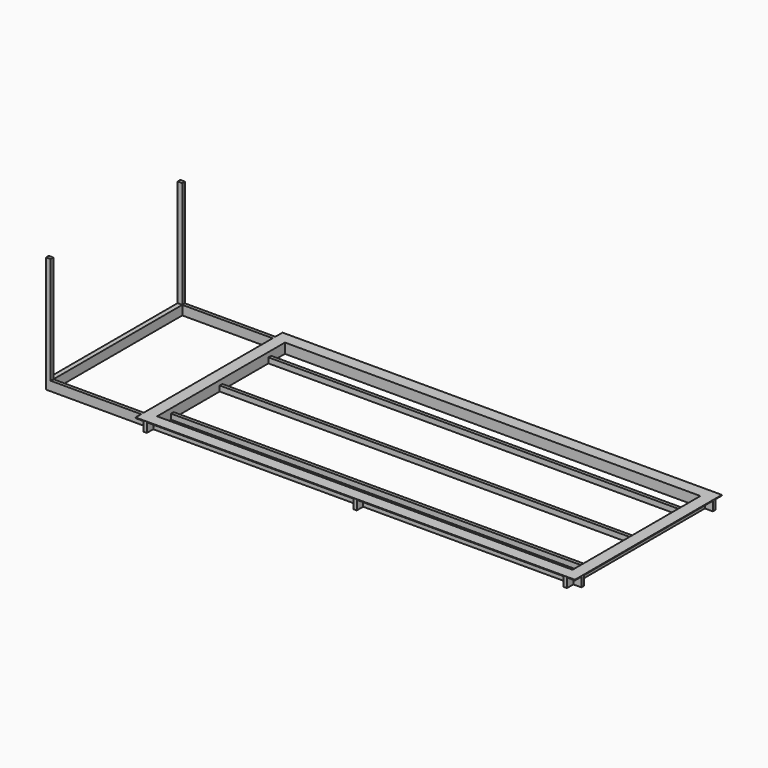
from build123d import *

# Parameters (mm, degrees)
F0_W      = 8077.2
F0_H      = 3200.4
F0_W_2    = 7924.8
F0_H_2    = 3048
F1_DEPTH  = 88.9
F2_W      = 8382
F2_H      = 3505.2
F2_W_2    = 8077.2
F2_H_2    = 3200.4
F3_DEPTH  = 12.7
F4_W      = 76.2
F4_H      = 63.5
F4_H_2    = 406.4
F4_W_2    = 7924.8
F4_H_3    = 1098.55
F5_DEPTH  = 101.6
F6_W      = 7924.8
F6_H      = 76.2
F7_DEPTH  = 101.6
F8_W      = 7924.8
F8_H      = 76.2
F9_DEPTH  = 101.6
F10_W     = 63.5
F10_H     = 152.4
F10_W_2   = 152.4
F10_H_2   = 63.5
F11_DEPTH = 177.8
F12_W     = 63.5
F12_H     = 177.8
F13_DEPTH = 1828.8
F14_W     = 88.9
F14_H     = 177.8
F15_DEPTH = 3103.88
F16_W     = 88.9
F16_H     = 63.5
F17_DEPTH = 2044.0396


with BuildPart() as f1:
    # F0 (on Top) → F1 (new body)
    with BuildSketch(Plane.XY):
        Rectangle(F0_W, F0_H)
        Rectangle(F0_W_2, F0_H_2, mode=Mode.SUBTRACT)
    extrude(amount=F1_DEPTH)

    # F2 (on face) → F3 (join)
    with BuildSketch(Plane.XY.offset(88.9)):
        Rectangle(F2_W, F2_H)
        Rectangle(F2_W_2, F2_H_2, mode=Mode.SUBTRACT)
    extrude(amount=-F3_DEPTH)

    # F4 (on face) → F5 (join)
    with BuildSketch(Plane(origin=(0, 0, 0), x_dir=(1, 0, 0), z_dir=(0, 0, -1))):
        with Locations((-4000.5, -1162.05)):
            Rectangle(F4_W, F4_H)
        with Locations((-4000.5, -1397)):
            Rectangle(F4_W, F4_H_2)
        with Locations((0, -1162.05)):
            Rectangle(F4_W_2, F4_H)
        with Locations((-4000.5, -581.025)):
            Rectangle(F4_W, F4_H_3)
        with Locations((4000.5, -1162.05)):
            Rectangle(F4_W, F4_H)
        with Locations((4000.5, -1397)):
            Rectangle(F4_W, F4_H_2)
        with Locations((-4000.5, 0)):
            Rectangle(F4_W, F4_H)
        with Locations((4000.5, -581.025)):
            Rectangle(F4_W, F4_H_3)
        with Locations((-4000.5, 581.025)):
            Rectangle(F4_W, F4_H_3)
        with Locations((4000.5, 0)):
            Rectangle(F4_W, F4_H)
        with Locations((-4000.5, 1162.05)):
            Rectangle(F4_W, F4_H)
        with Locations((4000.5, 581.025)):
            Rectangle(F4_W, F4_H_3)
        with Locations((0, 1162.05)):
            Rectangle(F4_W_2, F4_H)
        with Locations((-4000.5, 1397)):
            Rectangle(F4_W, F4_H_2)
        with Locations((4000.5, 1162.05)):
            Rectangle(F4_W, F4_H)
        with Locations((4000.5, 1397)):
            Rectangle(F4_W, F4_H_2)
        Rectangle(F4_W_2, F4_H)
    extrude(amount=F5_DEPTH)

    # F6 (on face) → F7 (join)
    with BuildSketch(Plane(origin=(0, 0, 0), x_dir=(1, 0, 0), z_dir=(0, 0, -1))):
        with Locations((0, -1562.1)):
            Rectangle(F6_W, F6_H)
    extrude(amount=F7_DEPTH)

    # F8 (on face) → F9 (join)
    with BuildSketch(Plane(origin=(0, 0, 0), x_dir=(1, 0, 0), z_dir=(0, 0, -1))):
        with Locations((0, 1562.1)):
            Rectangle(F8_W, F8_H)
    extrude(amount=F9_DEPTH)

    # F10 (on face) → F11 (join)
    with BuildSketch(Plane(origin=(0, 0, 76.2), x_dir=(1, 0, 0), z_dir=(0, 0, -1))):
        with Locations((-4006.85, 1676.4)):
            Rectangle(F10_W, F10_H)
        with Locations((-4114.8, 1568.45)):
            Rectangle(F10_W_2, F10_H_2)
        with Locations((-2.9379549325, 1676.4)):
            Rectangle(F10_W, F10_H)
        with Locations((4006.85, 1676.4)):
            Rectangle(F10_W, F10_H)
        with Locations((4114.8, 1568.45)):
            Rectangle(F10_W_2, F10_H_2)
        with Locations((4114.8, -1568.45)):
            Rectangle(F10_W_2, F10_H_2)
        with Locations((4006.85, -1676.4)):
            Rectangle(F10_W, F10_H)
        with Locations((-4006.85, -1676.4)):
            Rectangle(F10_W, F10_H)
        with Locations((-4114.8, -1568.45)):
            Rectangle(F10_W_2, F10_H_2)
        with Locations((-9.8344060481, -1676.4)):
            Rectangle(F10_W, F10_H)
    extrude(amount=F11_DEPTH)

    # F12 (on face) → F13 (join)
    with BuildSketch(Plane(origin=(-4191, 0, 0), x_dir=(0, -1, 0), z_dir=(-1, 0, 0))):
        with Locations((-1568.45, -12.7)):
            Rectangle(F12_W, F12_H)
        with Locations((1568.45, -12.7)):
            Rectangle(F12_W, F12_H)
    extrude(amount=F13_DEPTH)

    # F14 (on face) → F15 (join)
    with BuildSketch(Plane.XZ.offset(-1536.7)):
        with Locations((-5975.35, -12.7)):
            Rectangle(F14_W, F14_H)
    extrude(amount=F15_DEPTH)

    # F16 (on face) → F17 (join)
    with BuildSketch(Plane.XY.offset(76.2)):
        with Locations((-5975.35, -1568.45)):
            Rectangle(F16_W, F16_H)
        with Locations((-5975.35, 1568.45)):
            Rectangle(F16_W, F16_H)
    extrude(amount=F17_DEPTH)


solid = f1.part
